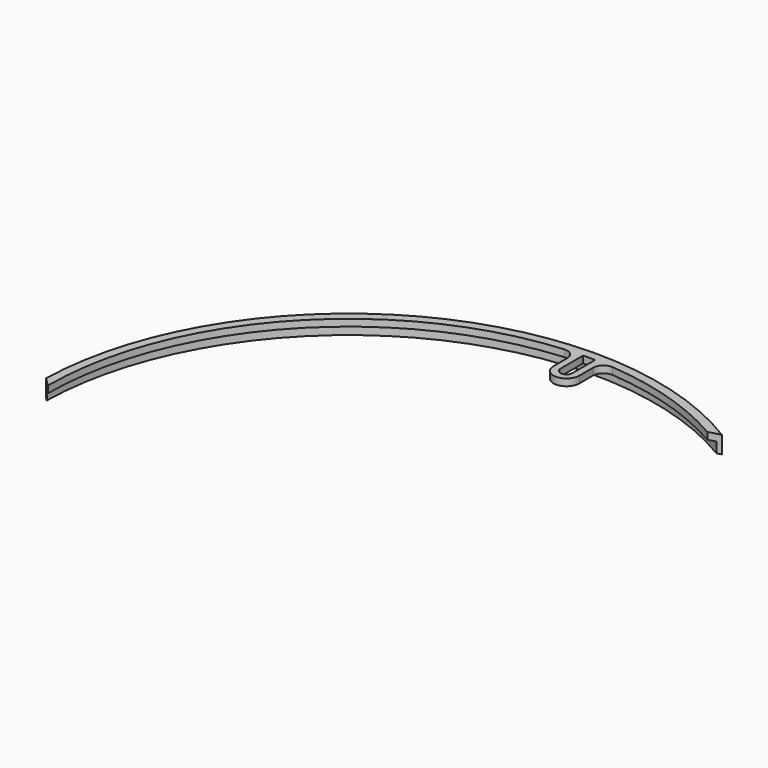
from build123d import *

# Parameters (mm, degrees)
F1_DEPTH = 5
F2_R     = 89
F3_DEPTH = 3


with BuildPart() as f1:
    # F0 (on Top) → F1 (new body)
    with BuildSketch(Plane.XY):
        with BuildLine():
            Line((43.7, 75.69062), (47.201785, 76.628921))
            ThreePointArc((47.201785, 76.628921), (-42.7617, 79.192405), (-89.963485, 2.563485))
            Line((-89.963485, 2.563485), (-87.4, 0))
            ThreePointArc((-87.4, 0), (-64.224916, 59.278327), (-6.989929, 87.120037))
            ThreePointArc((-6.989929, 87.120037), (-4.715275, 86.334164), (-3.75, 84.129647))
            Line((-3.75, 84.129647), (-3.75, 79.15))
            ThreePointArc((-3.75, 79.15), (0, 75.4), (3.75, 79.15))
            Line((3.75, 79.15), (3.75, 84.129647))
            ThreePointArc((3.75, 84.129647), (4.715275, 86.334164), (6.989929, 87.120037))
            ThreePointArc((6.989929, 87.120037), (25.981245, 83.448996), (43.7, 75.69062))
        make_face()
        with BuildLine():
            ThreePointArc((1.75, 79.15), (0, 77.4), (-1.75, 79.15))
            Line((-1.75, 79.15), (-1.75, 87.4))
            Line((-1.75, 87.4), (1.75, 87.4))
            Line((1.75, 87.4), (1.75, 79.15))
        make_face(mode=Mode.SUBTRACT)
    extrude(amount=F1_DEPTH)

    # F2 (on Top) → F3 (cut)
    with BuildSketch(Plane.XY):
        Circle(F2_R)
    extrude(amount=F3_DEPTH, mode=Mode.SUBTRACT)


solid = f1.part
